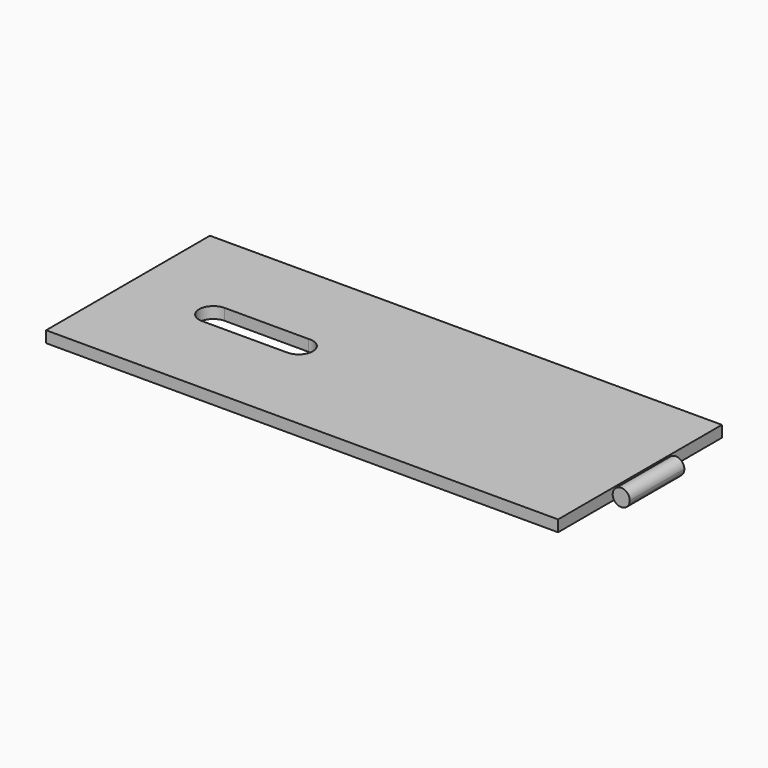
from build123d import *

# Parameters (mm, degrees)
F0_W     = 90
F0_H     = 36
F1_DEPTH = 2
F3_R     = 1.5
F4_DEPTH = 6
F6_DEPTH = 2


with BuildPart() as f1:
    # F0 (on Top) → F1 (new body)
    with BuildSketch(Plane.XY):
        with Locations((45, 18)):
            Rectangle(F0_W, F0_H)
    extrude(amount=F1_DEPTH)

    # F3 (on offset) → F4 (join, symmetric)
    with BuildSketch(Plane.XZ.offset(-18)):
        with Locations((91.5, 1)):
            Circle(F3_R)
    extrude(amount=F4_DEPTH, both=True)

    # F5 (on face) → F6 (cut, through all)
    with BuildSketch(Plane(origin=(0, 0, 0), x_dir=(1, 0, 0), z_dir=(0, 0, -1))):
        with BuildLine():
            Line((29.9774768636, -15.5001014604), (15.0225231364, -15.5001014604))
            ThreePointArc((15.0225231364, -15.5001014604), (15, -15.5), (14.9774768636, -15.5001014604))
            ThreePointArc((14.9774768636, -15.5001014604), (12.5000297735, -18.0122010997), (15.001878855, -20.499999294))
            Line((15.001878855, -20.499999294), (29.7647237283, -20.4889043927))
            ThreePointArc((29.7647237283, -20.4889043927), (32.4977297308, -18.1065185053), (29.9774768636, -15.5001014604))
        make_face()
    extrude(amount=-F6_DEPTH, mode=Mode.SUBTRACT)


solid = f1.part
